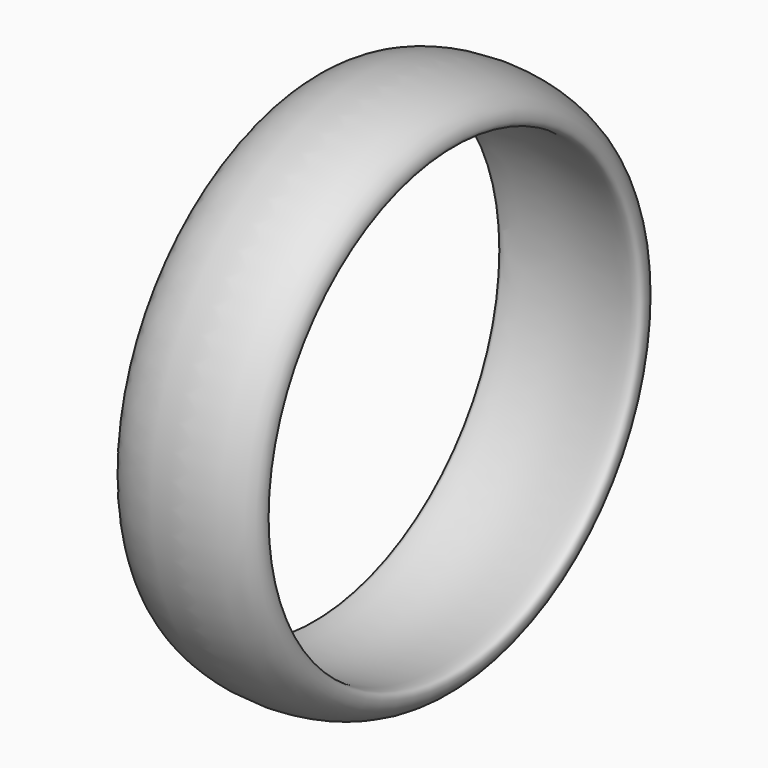
from build123d import *


with BuildPart() as f1:
    # F0 (on Top) → F1 (revolve)
    with BuildSketch(Plane.XY):
        with BuildLine():
            add(Edge.make_bspline(
                [(0, 11.175), (1.5, 11.175), (3, 10.675), (3, 9.875)],
                knots=[0, 0, 0, 0, 3.269557, 3.269557, 3.269557, 3.269557], degree=3))
            add(Edge.make_bspline(
                [(0, 11.175), (-1.5, 11.175), (-3, 10.675), (-3, 9.875)],
                knots=[0, 0, 0, 0, 3.269557, 3.269557, 3.269557, 3.269557], degree=3))
            add(Edge.make_bspline(
                [(-3, 9.875), (-3, 9.264336), (-2.117808, 9.775), (0, 9.775)],
                knots=[0, 0, 0, 0, 3.001666, 3.001666, 3.001666, 3.001666], degree=3))
            add(Edge.make_bspline(
                [(3, 9.875), (3, 9.264336), (2.117808, 9.775), (0, 9.775)],
                knots=[0, 0, 0, 0, 3.001666, 3.001666, 3.001666, 3.001666], degree=3))
        make_face()
    revolve(axis=Axis((2.325828, 0, 0), (1, 0, 0)))


solid = f1.part
